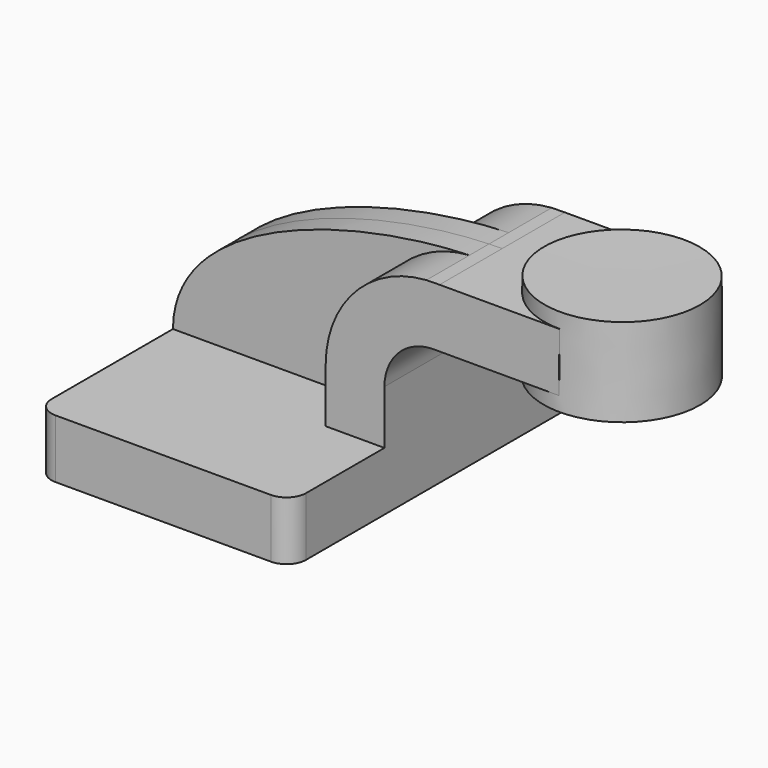
from build123d import *

# Parameters (mm, degrees)
F1_DEPTH = 63.5
F2_DEPTH = 7.9375
F3_DEPTH = 25.4
F5_R     = 6.35


with BuildPart() as f1:
    # F0 (on Front) → F1 (new body, symmetric)
    with BuildSketch(Plane.XZ):
        Polygon((-41.275, 9.525), (-41.275, -9.525), (41.275, -9.525), (41.275, 9.525), (22.225, 9.525), align=None)
    extrude(amount=F1_DEPTH, both=True)

    # F0 (on Front) → F2 (join, symmetric)
    with BuildSketch(Plane.XZ):
        with BuildLine():
            add(Edge.make_bspline(
                [(-41.275, 9.525), (-41.15331158, 43.5455983009), (15.5951323603, 60.6045840668), (54.8853746059, 61.8517006395)],
                knots=[0, 0, 0, 0, 109.2519553894, 109.2519553894, 109.2519553894, 109.2519553894], degree=3))
            Line((-41.275, 9.525), (22.225, 9.525))
            Line((22.225, 9.525), (22.225, 27.0002))
            ThreePointArc((22.225, 27.0002), (31.666204493, 50.8818203712), (54.8853746059, 61.8517006395))
        make_face()
    extrude(amount=F2_DEPTH, both=True)

    # F0 (on Front) → F3 (join, symmetric)
    with BuildSketch(Plane.XZ):
        Polygon((98.005393815, 61.9252), (72.4958287168, 61.9252), (72.4958287168, 42.8752), (97.9177884222, 42.8752), align=None)
        with BuildLine():
            Line((22.225, 9.525), (41.275, 9.525))
            Line((41.275, 9.525), (41.275, 27.0002))
            ThreePointArc((41.275, 27.0002), (45.9246798487, 38.2255201513), (57.15, 42.8752))
            Line((57.15, 42.8752), (72.4958287168, 42.8752))
            Line((72.4958287168, 42.8752), (72.4958287168, 61.9252))
            Line((72.4958287168, 61.9252), (59.1482142662, 61.9252))
            add(Edge.make_bspline(
                [(54.8853746059, 61.8517006395), (56.3311922229, 61.8975925202), (57.7533693148, 61.92207321), (59.1482142662, 61.9252)],
                knots=[109.2519553894, 109.2519553894, 109.2519553894, 109.2519553894, 113.2722513399, 113.2722513399, 113.2722513399, 113.2722513399], degree=3))
            ThreePointArc((54.8853746059, 61.8517006395), (31.666204493, 50.8818203712), (22.225, 27.0002))
            Line((22.225, 27.0002), (22.225, 9.525))
        make_face()
    extrude(amount=F3_DEPTH, both=True)

    # F0 (on Front) → F4 (revolve)
    with BuildSketch(Plane.XZ):
        Polygon((98.0272367597, 66.675), (98.005393815, 61.9252), (97.9177884222, 42.8752), (97.8958287168, 38.100010092), (123.2958287168, 38.100010092), (123.2958287168, 66.675), align=None)
    revolve(axis=Axis((97.9615327382, 0, 52.387505046), (0.0045986597, 0, 0.9999894261)))

    # F5
    f5_edges = [f1.edges().sort_by_distance(p)[0] for p in [
        (-41.275, -63.5, 0),
        (41.275, -63.5, 0),
        (41.275, 63.5, 0),
        (-41.275, 63.5, 0),
    ]]
    fillet(f5_edges, radius=F5_R)


solid = f1.part
